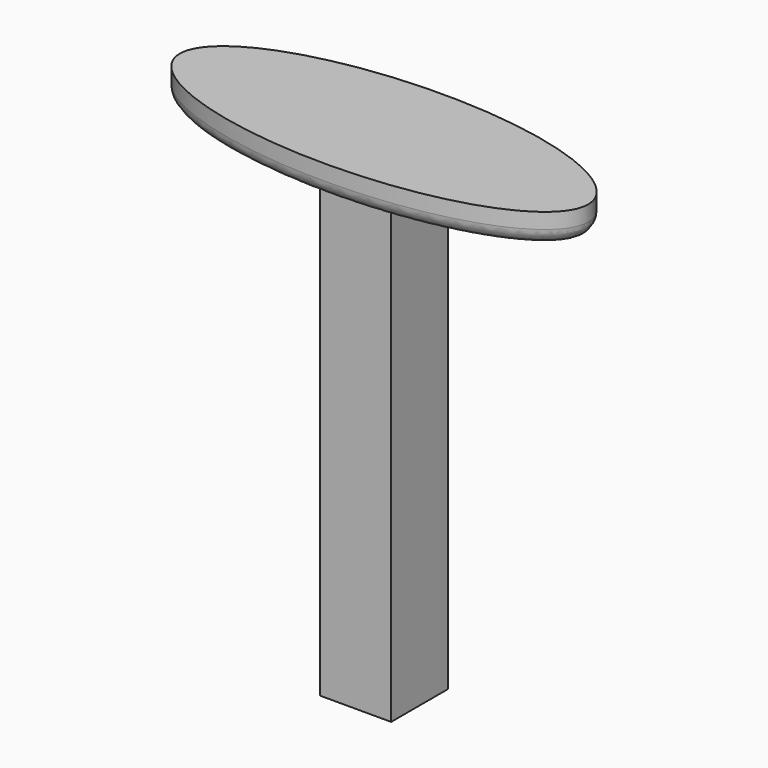
from build123d import *

# Parameters (mm, degrees)
F0_W     = 5.842
F0_H     = 5.842
F1_DEPTH = 38.1
F3_DEPTH = 2.54
F4_R     = 1.27


with BuildPart() as f1:
    # F0 (on Top) → F1 (new body)
    with BuildSketch(Plane.XY):
        Rectangle(F0_W, F0_H)
    extrude(amount=F1_DEPTH)

    # F2 (on face) → F3 (join)
    with BuildSketch(Plane.XY.offset(38.1)):
        with BuildLine():
            add(Edge.make_bspline(
                [(16.730471, 0), (16.730471, 10.595953), (-8.365235, 5.297976), (-33.460941, 0), (-8.365235, -5.297976), (16.730471, -10.595953), (16.730471, 0)],
                knots=[0, 0, 0, 2.094395, 2.094395, 4.18879, 4.18879, 6.283185, 6.283185, 6.283185], degree=2, weights=[1, 0.5, 1, 0.5, 1, 0.5, 1]))
        make_face()
    extrude(amount=F3_DEPTH)

    # F4
    f4_edges = [f1.edges().sort_by_distance(p)[0] for p in [
        (2.921, 0, 38.1),
        (0, -2.921, 38.1),
        (-2.921, 0, 38.1),
        (0, 2.921, 38.1),
        (-16.730471, 4.7e-05, 38.1),
    ]]
    fillet(f4_edges, radius=F4_R)


solid = f1.part
